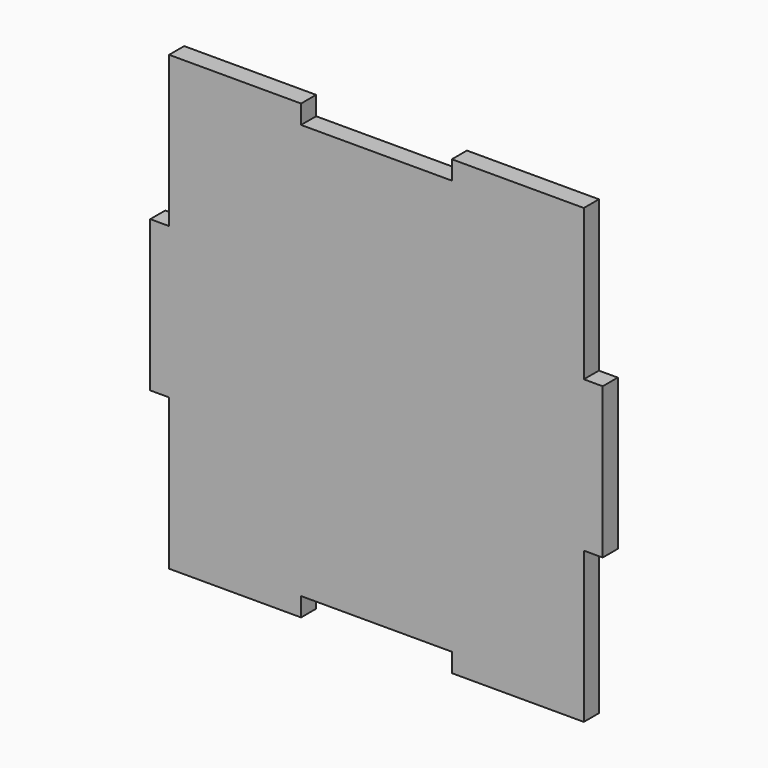
from build123d import *

# Parameters (mm, degrees)
F0_W     = 3.175
F0_H     = 25.4
F1_DEPTH = 3.175


with BuildPart() as f1:
    # F0 (on Front) → F1 (new body)
    with BuildSketch(Plane.XZ):
        Polygon((12.7, -38.1), (34.925, -38.1), (34.925, -12.7), (34.925, 12.7), (34.925, 38.1), (12.7, 38.1), (12.7, 34.925), (-12.7, 34.925), (-12.7, 38.1), (-34.925, 38.1), (-34.925, 12.7), (-34.925, -12.7), (-34.925, -38.1), (-12.7, -38.1), (-12.7, -34.925), (12.7, -34.925), align=None)
        with Locations((-36.5125, 0)):
            Rectangle(F0_W, F0_H)
        with Locations((36.5125, 0)):
            Rectangle(F0_W, F0_H)
    extrude(amount=F1_DEPTH)


solid = f1.part
